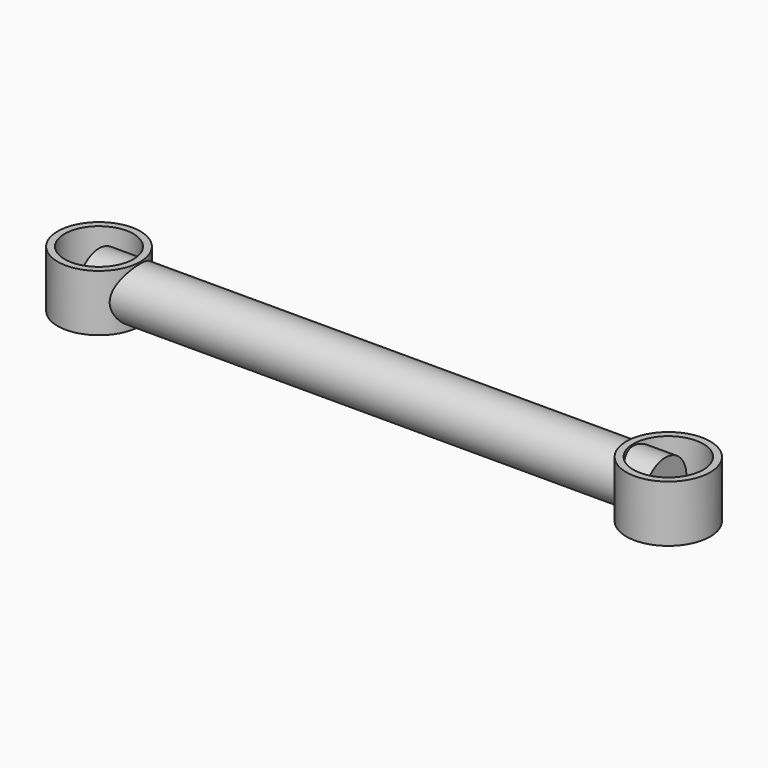
from build123d import *

# Parameters (mm, degrees)
F0_R     = 36.483751
F0_R_2   = 30.376476
F1_DEPTH = 50
F2_R     = 23.298681
F3_DEPTH = 500
F4_R     = 37.031172
F4_R_2   = 30.887405
F5_DEPTH = 50


with BuildPart() as f1:
    # F0 (on Top) → F1 (new body)
    with BuildSketch(Plane.XY):
        Circle(F0_R)
        Circle(F0_R_2, mode=Mode.SUBTRACT)
    extrude(amount=F1_DEPTH)

    # F2 (on Right) → F3 (join)
    with BuildSketch(Plane.YZ):
        with Locations((0, 25.27174)):
            Circle(F2_R)
    extrude(amount=F3_DEPTH)

    # F4 (on Top) → F5 (join)
    with BuildSketch(Plane.XY):
        with Locations((502.687037, 0)):
            Circle(F4_R)
        with Locations((502.687037, 0)):
            Circle(F4_R_2, mode=Mode.SUBTRACT)
    extrude(amount=F5_DEPTH)


solid = f1.part
